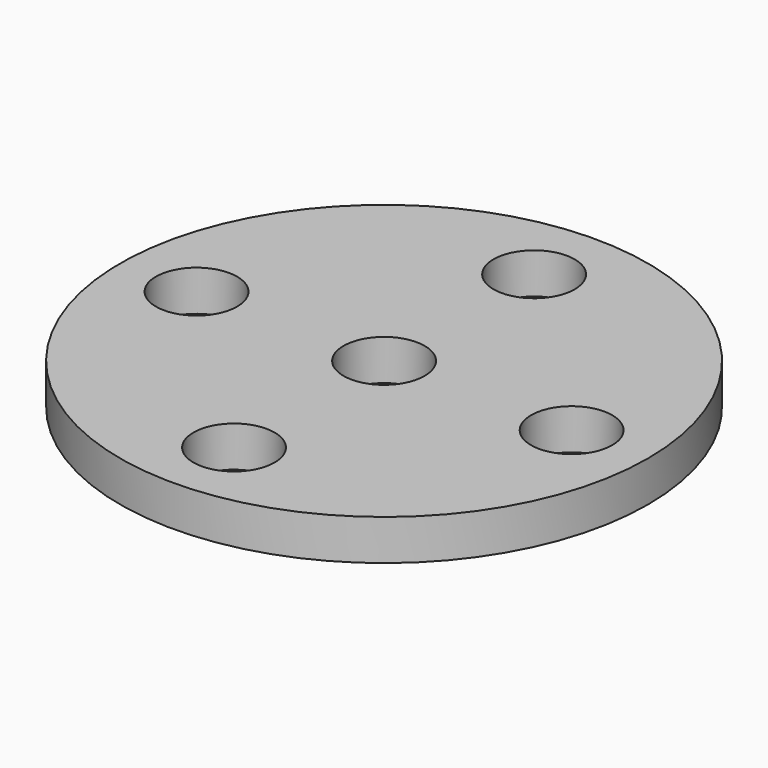
from build123d import *

# Parameters (mm, degrees)
F0_R     = 6.5
F0_R_2   = 1
F1_DEPTH = 1


with BuildPart() as f1:
    # F0 (on Top) → F1 (new body)
    with BuildSketch(Plane.XY):
        Circle(F0_R)
        with Locations((0, -4.618563)):
            Circle(F0_R_2, mode=Mode.SUBTRACT)
        with Locations((-4.618563, 0)):
            Circle(F0_R_2, mode=Mode.SUBTRACT)
        Circle(F0_R_2, mode=Mode.SUBTRACT)
        with Locations((4.618563, 0)):
            Circle(F0_R_2, mode=Mode.SUBTRACT)
        with Locations((0, 4.618563)):
            Circle(F0_R_2, mode=Mode.SUBTRACT)
    extrude(amount=F1_DEPTH)


solid = f1.part
